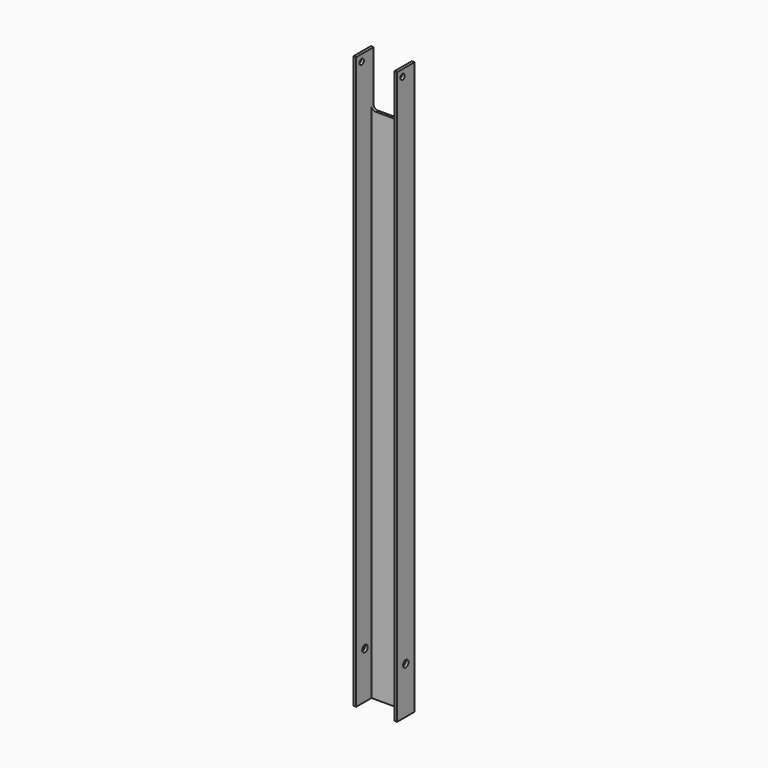
from build123d import *

# Parameters (mm, degrees)
F1_DEPTH = 666.75
F2_R     = 3.96875
F3_DEPTH = 50.8
F4_R     = 3.175
F5_DEPTH = 50.8
F7_DEPTH = 25.4
F8_DEPTH = 25.4


with BuildPart() as f1:
    # F0 (on Top) → F1 (new body)
    with BuildSketch(Plane.XY):
        Polygon((-25.4, 12.7), (-25.4, -12.7), (-22.225, -12.7), (-22.225, 9.525), (22.225, 9.525), (22.225, -12.7), (25.4, -12.7), (25.4, 12.7), align=None)
    extrude(amount=F1_DEPTH)

    # F2 (on face) → F3 (cut, through all)
    with BuildSketch(Plane.YZ.offset(25.4)):
        with Locations((0, 16.51)):
            Circle(F2_R)
        with Locations((0, 54.61)):
            Circle(F2_R)
    extrude(amount=-F3_DEPTH, mode=Mode.SUBTRACT)

    # F4 (on face) → F5 (cut, through all)
    with BuildSketch(Plane.YZ.offset(25.4)):
        with Locations((-4.7625, 658.7236)):
            Circle(F4_R)
    extrude(amount=-F5_DEPTH, mode=Mode.SUBTRACT)

    # F6 (on face) → F7 (cut)
    with BuildSketch(Plane(origin=(0, 12.7, 0), x_dir=(-1, 0, 0), z_dir=(0, 1, 0))):
        with BuildLine():
            Line((22.225, 666.75), (-22.225, 666.75))
            Line((-22.225, 666.75), (-22.225, 608.0125))
            ThreePointArc((-22.225, 608.0125), (-20.830096, 604.644904), (-17.4625, 603.25))
            Line((-17.4625, 603.25), (17.4625, 603.25))
            ThreePointArc((17.4625, 603.25), (20.830096, 604.644904), (22.225, 608.0125))
            Line((22.225, 608.0125), (22.225, 666.75))
        make_face()
    extrude(amount=-F7_DEPTH, mode=Mode.SUBTRACT)

    # F0 (on Top) → F8 (join)
    with BuildSketch(Plane.XY):
        Polygon((-25.4, 12.7), (-25.4, -12.7), (-22.225, -12.7), (-22.225, 9.525), (22.225, 9.525), (22.225, -12.7), (25.4, -12.7), (25.4, 12.7), align=None)
    extrude(amount=F8_DEPTH)


solid = f1.part
